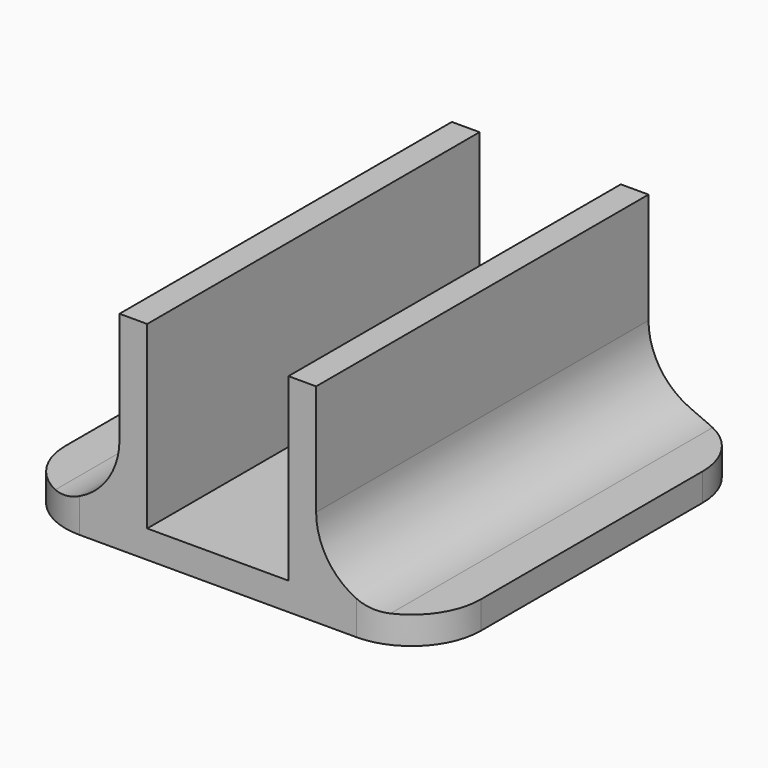
from build123d import *

# Parameters (mm, degrees)
F1_DEPTH = 30
F2_R     = 5
F3_R     = 5


with BuildPart() as f1:
    # F0 (on Front) → F1 (new body)
    with BuildSketch(Plane.XZ):
        Polygon((-15, 2), (-15, 0), (15, 0), (15, 2), (7.1, 2), (7.1, 15), (5.1, 15), (5.1, 2), (-5.1, 2), (-5.1, 15), (-7.1, 15), (-7.1, 2), align=None)
    extrude(amount=-F1_DEPTH)

    # F2
    f2_edges = [f1.edges().sort_by_distance(p)[0] for p in [
        (-15, 0, 1),
        (15, 0, 1),
        (-15, 30, 1),
        (15, 30, 1),
    ]]
    fillet(f2_edges, radius=F2_R)

    # F3
    f3_edges = [f1.edges().sort_by_distance(p)[0] for p in [
        (-7.1, 15, 2),
        (7.1, 15, 2),
    ]]
    fillet(f3_edges, radius=F3_R)


solid = f1.part
